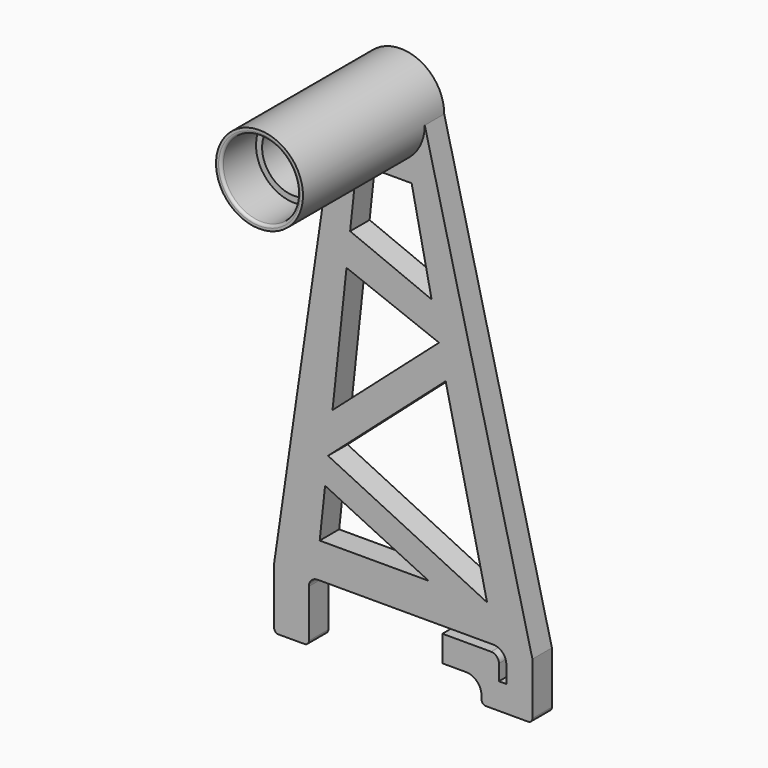
from build123d import *

# Parameters (mm, degrees)
F1_DEPTH = 7.62
F2_R     = 12.7
F2_R_2   = 9.398
F3_DEPTH = 31.75
F4_R     = 12.7
F4_R_2   = 11.176
F5_DEPTH = 12.7
F6_R     = 6.35
F7_DEPTH = 25.4
F8_R     = 0.762
F9_SIZE2 = 0.508
F9_SIZE  = 0.8798818102


with BuildPart() as f1:
    # F0 (on Front) → F1 (new body)
    with BuildSketch(Plane.XZ):
        with BuildLine():
            ThreePointArc((-21.1420084076, -2.54), (-20.3980596318, -0.7439487758), (-18.6020084076, 0))
            Line((-18.6020084076, 0), (32.7059915924, 0))
            ThreePointArc((32.7059915924, 0), (35.4000684287, -1.1159231637), (36.5159915924, -3.81))
            Line((36.5159915924, -3.81), (36.5159915924, -8.89))
            Line((36.5159915924, -8.89), (34.3569915924, -8.89))
            Line((34.3569915924, -8.89), (34.3569915924, -4.318))
            ThreePointArc((34.3569915924, -4.318), (33.6874376942, -2.7015538982), (32.0709915924, -2.032))
            Line((32.0709915924, -2.032), (29.2769915924, -2.032))
            Line((29.2769915924, -2.032), (17.8469915924, -2.032))
            Line((17.8469915924, -2.032), (17.8469915924, -9.652))
            Line((17.8469915924, -9.652), (24.7049915924, -9.652))
            ThreePointArc((24.7049915924, -9.652), (27.937883796, -10.9911077964), (29.2769915924, -14.224))
            Line((29.2769915924, -14.224), (29.2769915924, -15.24))
            ThreePointArc((29.2769915924, -15.24), (29.6489659803, -16.1380256121), (30.5469915924, -16.51))
            Line((30.5469915924, -16.51), (42.8659915924, -16.51))
            ThreePointArc((42.8659915924, -16.51), (43.7640172045, -16.1380256121), (44.1359915924, -15.24))
            Line((44.1359915924, -15.24), (44.1359915924, 0))
            Line((44.1359915924, 0), (12.7, 127))
            ThreePointArc((12.7, 127), (0, 139.7), (-12.7, 127))
            Line((-12.7, 127), (-31.3020084076, 0))
            Line((-31.3020084076, 0), (-31.3020084076, -16.51))
            ThreePointArc((-31.3020084076, -16.51), (-30.9300340197, -17.4080256121), (-30.0320084076, -17.78))
            Line((-30.0320084076, -17.78), (-22.4120084076, -17.78))
            ThreePointArc((-22.4120084076, -17.78), (-21.5139827955, -17.4080256121), (-21.1420084076, -16.51))
            Line((-21.1420084076, -16.51), (-21.1420084076, -2.54))
        make_face()
        Polygon((13.8583155349, 10.2559253573), (-17.4904800951, 10.2559253573), (-17.9861974368, 10.2559253573), (-16.4103638381, 24.8740110546), align=None, mode=Mode.SUBTRACT)
        Polygon((30.8991490559, 10.2559253573), (-15.5502194539, 32.8530669212), (18.8005114427, 63.1991239488), align=None, mode=Mode.SUBTRACT)
        Polygon((16.8689347681, 72.4665825348), (-14.2382610105, 45.0233372929), (-10.1512422372, 82.9362176403), align=None, mode=Mode.SUBTRACT)
        Polygon((-7.1419274588, 110.8518689871), (8.8684540242, 110.8518689871), (14.6986516415, 82.8793242388), (-9.1010310551, 92.6784119132), align=None, mode=Mode.SUBTRACT)
    extrude(amount=F1_DEPTH)

    # F2 (on face) → F3 (join)
    with BuildSketch(Plane.XZ.offset(7.62)):
        with Locations((0, 127)):
            Circle(F2_R)
        with Locations((0, 127)):
            Circle(F2_R_2, mode=Mode.SUBTRACT)
    extrude(amount=F3_DEPTH)

    # F4 (on face) → F5 (join)
    with BuildSketch(Plane.XZ.offset(39.37)):
        with Locations((0, 127)):
            Circle(F4_R)
        with Locations((0, 127)):
            Circle(F4_R_2, mode=Mode.SUBTRACT)
    extrude(amount=F5_DEPTH)

    # F6 (on face) → F7 (cut)
    with BuildSketch(Plane.XZ.offset(7.62)):
        with Locations((0, 127)):
            Circle(F6_R)
    extrude(amount=-F7_DEPTH, mode=Mode.SUBTRACT)

    # F8
    f8_edges = [f1.edges().sort_by_distance(p)[0] for p in [
        (-11.176, -52.07, 127),
    ]]
    fillet(f8_edges, radius=F8_R)

    # F9
    f9_edges = [f1.edges().sort_by_distance(p)[0] for p in [
        (-31.302008, 0, -8.255),
        (-22.001004, 0, 63.5),
        (-30.930034, 0, -17.408026),
        (0, 0, 139.7),
        (-26.222008, 0, -17.78),
        (28.417996, 0, 63.5),
        (-21.513983, 0, -17.408026),
        (44.135992, 0, -7.62),
        (-21.142008, 0, -9.525),
        (43.764017, 0, -16.138026),
        (-20.39806, 0, -0.743949),
        (36.706492, 0, -16.51),
        (7.051992, 0, 0),
        (29.648966, 0, -16.138026),
        (35.400068, 0, -1.115923),
        (29.276992, 0, -14.732),
        (36.515992, 0, -6.35),
        (27.937884, 0, -10.991108),
        (35.436492, 0, -8.89),
        (21.275992, 0, -9.652),
        (34.356992, 0, -6.604),
        (17.846992, 0, -5.842),
        (33.687438, 0, -2.701554),
        (24.958992, 0, -2.032),
        (-17.198281, 0, 17.564968),
        (-2.063941, 0, 10.255925),
        (-1.276024, 0, 17.564968),
        (1.315337, 0, 58.74496),
        (3.358846, 0, 77.7014),
        (-12.194752, 0, 63.979777),
        (24.84983, 0, 36.727525),
        (1.625146, 0, 48.026095),
        (7.674465, 0, 21.554496),
        (0.863263, 0, 110.851869),
        (-8.121479, 0, 101.76514),
        (11.783553, 0, 96.865597),
        (2.79881, 0, 87.778868),
        (-6.35, 0, 127),
    ]]
    f9_side = f1.faces().sort_by_distance((-29.555846, 0, -8.255))[0]
    chamfer(f9_edges, length=F9_SIZE, length2=F9_SIZE2, reference=f9_side)


solid = f1.part
